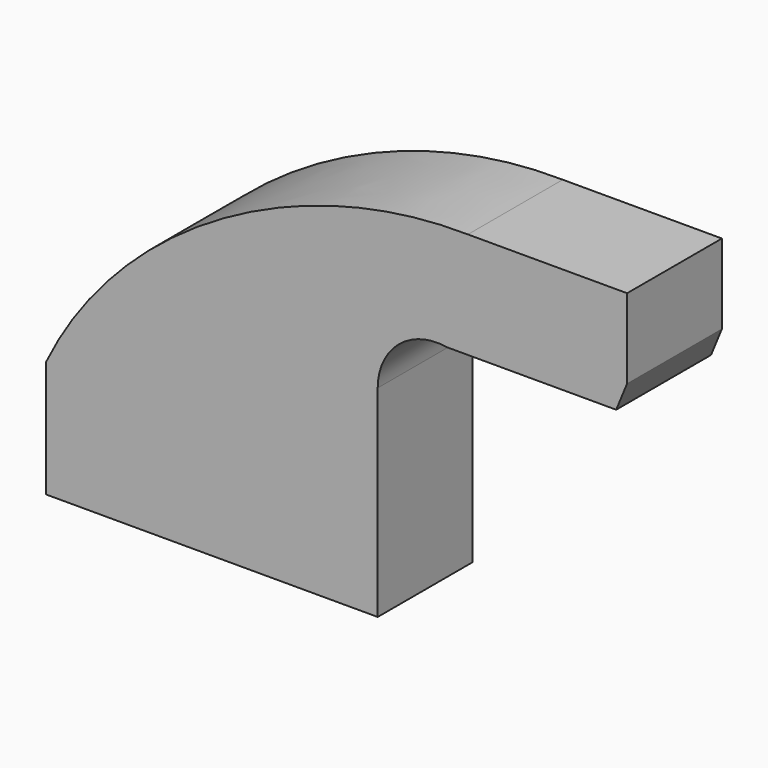
from build123d import *

# Parameters (mm, degrees)
F1_DEPTH = 25.4


with BuildPart() as f1:
    # F0 (on Front) → F1 (new body)
    with BuildSketch(Plane.XZ):
        Polygon((88.974215, 65.948948), (54.8627, 65.948948), (54.8627, 58.892507), (54.8627, 48.893191), (88.974215, 48.893191), align=None)
        with BuildLine():
            Line((19.848254, 12.507557), (35.532828, 12.507557))
            Line((35.532828, 12.507557), (35.532828, 30.700376))
            ThreePointArc((35.532828, 30.700376), (40.023166, 40.382017), (50.314497, 43.207932))
            Line((50.314497, 43.207932), (86.637879, 43.207932))
            Line((86.637879, 43.207932), (88.974215, 48.893191))
            Line((88.974215, 48.893191), (54.8627, 48.893191))
            Line((54.8627, 48.893191), (54.8627, 58.892507))
            Line((54.8627, 58.892507), (51.360797, 58.892507))
            ThreePointArc((51.360797, 58.892507), (29.301535, 51.841785), (19.848254, 30.700376))
            Line((19.848254, 30.700376), (19.848254, 12.507557))
        make_face()
        with BuildLine():
            add(Edge.make_bspline(
                [(-35.532828, 12.507557), (-19.614134, 45.482036), (19.045593, 66.51748), (54.8627, 65.948948)],
                knots=[0, 0, 0, 0, 105.011113, 105.011113, 105.011113, 105.011113], degree=3))
            Line((-35.532828, 12.507557), (19.848254, 12.507557))
            Line((19.848254, 12.507557), (19.848254, 30.700376))
            ThreePointArc((19.848254, 30.700376), (29.301535, 51.841785), (51.360797, 58.892507))
            Line((51.360797, 58.892507), (54.8627, 58.892507))
            Line((54.8627, 58.892507), (54.8627, 65.948948))
        make_face()
        Polygon((-35.532828, -12.507557), (35.532828, -12.507557), (35.532828, 12.507557), (19.848254, 12.507557), (-35.532828, 12.507557), align=None)
    extrude(amount=F1_DEPTH)


solid = f1.part
